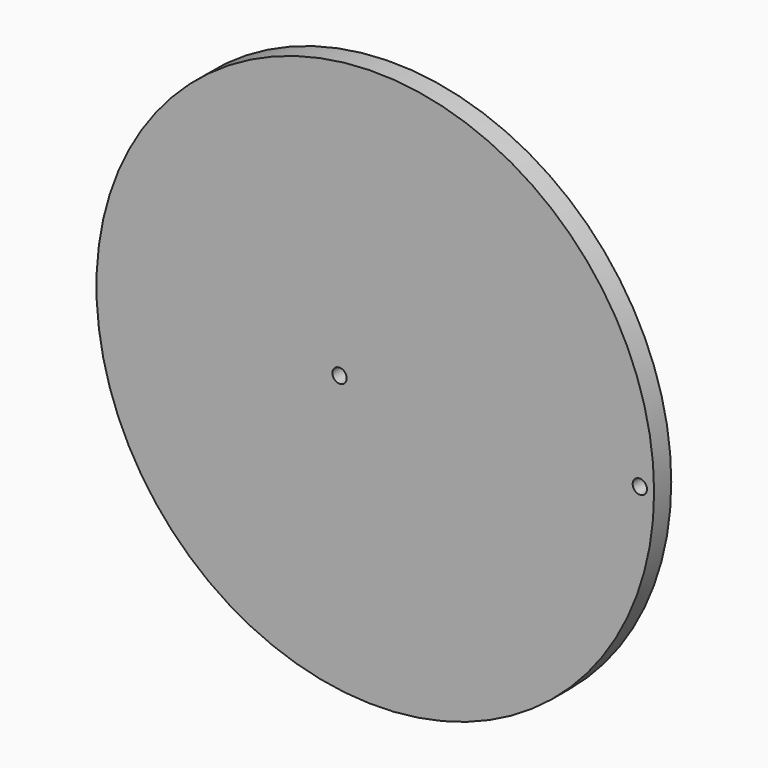
from build123d import *

# Parameters (mm, degrees)
F3_R     = 78
F3_R_2   = 2
F4_DEPTH = 6
F0_R     = 1.5


with BuildPart() as f4:
    # F3 (on offset) → F4 (new body)
    with BuildSketch(Plane.XZ.offset(3)):
        with Locations((10, 0)):
            Circle(F3_R)
        Circle(F3_R_2, mode=Mode.SUBTRACT)
        with Locations((84, 0)):
            Circle(F3_R_2, mode=Mode.SUBTRACT)
    extrude(amount=-F4_DEPTH)

    # F5: sweep along a path in F1
    with BuildLine(Plane.XZ) as f5_path:
        ThreePointArc((0, 0), (10, 10), (20, 0))
        ThreePointArc((20, 0), (8, -12), (-4, 0))
        ThreePointArc((-4, 0), (10, 14), (24, 0))
        ThreePointArc((24, 0), (8, -16), (-8, 0))
        ThreePointArc((-8, 0), (10, 18), (28, 0))
        ThreePointArc((28, 0), (8, -20), (-12, 0))
        ThreePointArc((-12, 0), (10, 22), (32, 0))
        ThreePointArc((32, 0), (8, -24), (-16, 0))
        ThreePointArc((-16, 0), (10, 26), (36, 0))
        ThreePointArc((36, 0), (8, -28), (-20, 0))
        ThreePointArc((-20, 0), (10, 30), (40, 0))
        ThreePointArc((40, 0), (8, -32), (-24, 0))
        ThreePointArc((-24, 0), (10, 34), (44, 0))
        ThreePointArc((44, 0), (8, -36), (-28, 0))
        ThreePointArc((-28, 0), (10, 38), (48, 0))
        ThreePointArc((48, 0), (8, -40), (-32, 0))
        ThreePointArc((-32, 0), (10, 42), (52, 0))
        ThreePointArc((52, 0), (8, -44), (-36, 0))
        ThreePointArc((-36, 0), (10, 46), (56, 0))
        ThreePointArc((56, 0), (8, -48), (-40, 0))
        ThreePointArc((-40, 0), (10, 50), (60, 0))
        ThreePointArc((60, 0), (8, -52), (-44, 0))
        ThreePointArc((-44, 0), (10, 54), (64, 0))
        ThreePointArc((64, 0), (8, -56), (-48, 0))
        ThreePointArc((-48, 0), (10, 58), (68, 0))
        ThreePointArc((68, 0), (8, -60), (-52, 0))
        ThreePointArc((-52, 0), (10, 62), (72, 0))
        ThreePointArc((72, 0), (8, -64), (-56, 0))
        ThreePointArc((-56, 0), (10, 66), (76, 0))
        ThreePointArc((76, 0), (8, -68), (-60, 0))
        ThreePointArc((-60, 0), (10, 70), (80, 0))
        ThreePointArc((80, 0), (8, -72), (-64, 0))
        ThreePointArc((-64, 0), (10, 74), (84, 0))
    # F0 (on Top) → F5 (sweep, cut)
    with BuildSketch(Plane.XY):
        Circle(F0_R)
    sweep(path=f5_path.line, mode=Mode.SUBTRACT)


solid = f4.part
